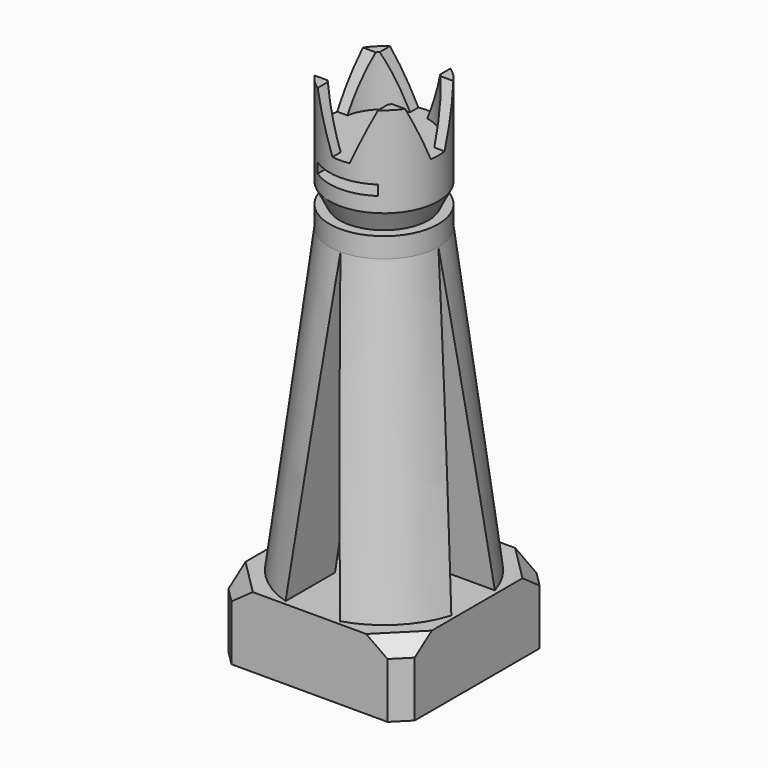
from build123d import *

# Parameters (mm, degrees)
SKETCH_W              = 18.5
SKETCH_H              = 18.5
SKETCH_R              = 8.15
PAD_DEPTH             = 4
SKETCH001_W           = 18.5
SKETCH001_H           = 18.5
PAD001_DEPTH          = 3
SKETCH002_R           = 9.25
SKETCH003_R           = 5.4
SKETCH005_R           = 5.4
PAD002_DEPTH          = 2
CHAMFER_SIZE          = 1.5
CHAMFER001_SIZE       = 1.5
POCKET_DEPTH          = 112.426503
POLARPATTERN_COUNT    = 4
SKETCH007_R           = 4.4
SKETCH008_R           = 5.4
SKETCH009_R           = 5.4
PAD003_DEPTH          = 9
SKETCH010_R           = 4.4
POCKET001_DEPTH       = 5
POCKET002_DEPTH       = 131.363749
POLARPATTERN001_COUNT = 4
SKETCH012_W           = 6
SKETCH012_H           = 1
POCKET003_DEPTH       = 18.501


with BuildPart() as part:
    # Sketch → Pad (new body)
    with BuildSketch(Plane.XY):
        Rectangle(SKETCH_W, SKETCH_H)
        Circle(SKETCH_R, mode=Mode.SUBTRACT)
    extrude(amount=PAD_DEPTH)

    # Sketch001 (on Face7 of Pad) → Pad001 (join)
    with BuildSketch(Plane.XY.offset(4)):
        Rectangle(SKETCH001_W, SKETCH001_H)
    extrude(amount=PAD001_DEPTH)

    # Sketch002 (on Face10 of Pad001) → AdditiveLoft section 0
    with BuildSketch(Plane.XY.offset(7)):
        Circle(SKETCH002_R)
    # Sketch003 (on Face10 of Pad001) → AdditiveLoft section 1
    with BuildSketch(Plane.XY.offset(37)):
        Circle(SKETCH003_R)
    loft()

    # Sketch005 (on Face17 of AdditiveLoft) → Pad002 (join)
    with BuildSketch(Plane.XY.offset(37)):
        Circle(SKETCH005_R)
    extrude(amount=PAD002_DEPTH)

    # Chamfer
    chamfer_edges = [part.edges().sort_by_distance(p)[0] for p in [
        (-9.25, -9.25, 5.5),
        (-9.25, -9.25, 2),
        (9.25, -9.25, 5.5),
        (9.25, -9.25, 2),
        (9.25, 9.25, 2),
        (9.25, 9.25, 5.5),
        (-9.25, 9.25, 5.5),
        (-9.25, 9.25, 2),
    ]]
    chamfer(chamfer_edges, length=CHAMFER_SIZE)

    # Chamfer001
    chamfer001_edges = [part.edges().sort_by_distance(p)[0] for p in [
        (8.5, -8.5, 7),
        (-8.5, -8.5, 7),
        (-8.5, 8.5, 7),
        (8.5, 8.5, 7),
    ]]
    chamfer(chamfer001_edges, length=CHAMFER001_SIZE)

    # Sketch006 (on Face19 of Chamfer001) → Pocket (cut, through all)
    with BuildSketch(Plane.YZ.offset(9.25)):
        Polygon((0, 37), (-2.7, 7), (2.7, 7), align=None)
    pocket = extrude(amount=-POCKET_DEPTH, mode=Mode.SUBTRACT)

    # PolarPattern: Pocket ×4 about axis
    polarpattern_axis = Axis((0, 0, 0), (0, 0, 1))
    for i in range(1, POLARPATTERN_COUNT):
        add(pocket.rotate(polarpattern_axis, i * 360 / POLARPATTERN_COUNT), mode=Mode.SUBTRACT)

    # Sketch007 (on Face47 of PolarPattern) → AdditiveLoft001 section 0
    with BuildSketch(Plane.XY.offset(39)):
        Circle(SKETCH007_R)
    # Sketch008 → AdditiveLoft001 section 1
    with BuildSketch(Plane.XY.offset(41)):
        Circle(SKETCH008_R)
    loft()

    # Sketch009 (on Face56 of AdditiveLoft001) → Pad003 (join)
    with BuildSketch(Plane.XY.offset(41)):
        Circle(SKETCH009_R)
    extrude(amount=PAD003_DEPTH)

    # Sketch010 (on Face57 of Pad003) → Pocket001 (cut)
    with BuildSketch(Plane.XY.offset(50)):
        Circle(SKETCH010_R)
    extrude(amount=-POCKET001_DEPTH, mode=Mode.SUBTRACT)

    # Sketch011 (on Face26 of Pocket001) → Pocket002 (cut, through all)
    with BuildSketch(Plane.YZ.offset(9.25)):
        Polygon((-3, 50), (3, 50), (0.85, 45), (-0.85, 45), align=None)
    pocket002 = extrude(amount=-POCKET002_DEPTH, mode=Mode.SUBTRACT)

    # PolarPattern001: Pocket002 ×4 about axis
    polarpattern001_axis = Axis((0, 0, 0), (0, 0, 1))
    for i in range(1, POLARPATTERN001_COUNT):
        add(pocket002.rotate(polarpattern001_axis, i * 360 / POLARPATTERN001_COUNT), mode=Mode.SUBTRACT)

    # Sketch012 (on Face4 of PolarPattern001) → Pocket003 (cut, through all)
    with BuildSketch(Plane(origin=(0, 9.25, 0), x_dir=(-1, 0, 0), z_dir=(0, 1, 0))):
        with Locations((0, 43)):
            Rectangle(SKETCH012_W, SKETCH012_H)
    extrude(amount=-POCKET003_DEPTH, mode=Mode.SUBTRACT)


solid = part.part
